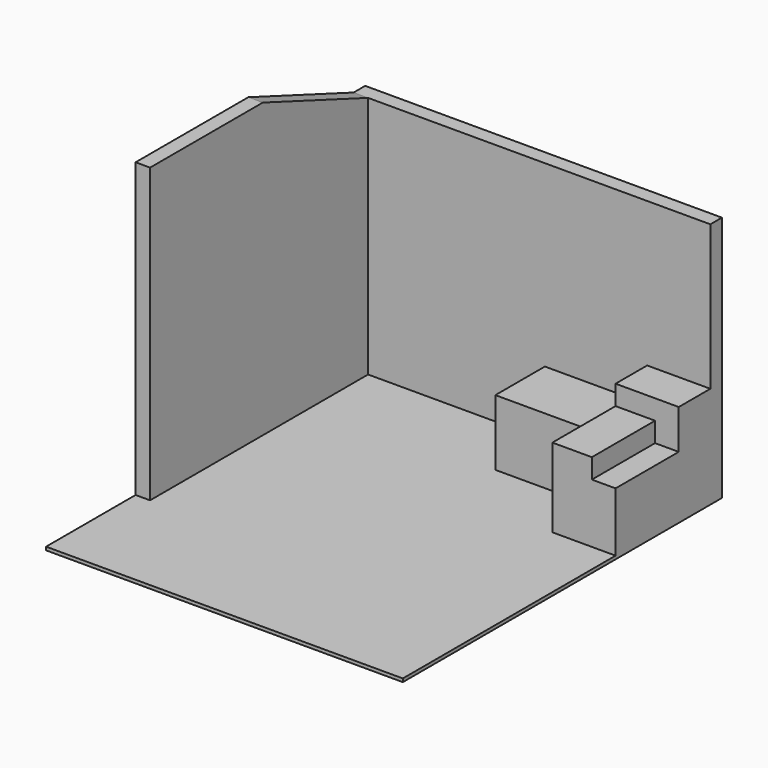
from build123d import *

# Parameters (mm, degrees)
F0_W      = 110
F0_H      = 2070
F1_DEPTH  = 2225
F2_W      = 1780
F2_H      = 110
F3_DEPTH  = 1850
F5_DEPTH  = 110
F6_W      = 1780
F6_H      = 2180
F7_DEPTH  = 25
F8_DEPTH  = 930
F9_W      = 480
F9_H      = 900
F10_DEPTH = 450
F11_W     = 480
F11_H     = 300
F12_DEPTH = 300
F13_W     = 300
F13_H     = 600
F14_DEPTH = 150
F15_W     = 750
F15_H     = 470
F16_DEPTH = 500
F17_W     = 2710
F17_H     = 25
F18_DEPTH = 850


with BuildPart() as f1:
    # F0 (on Top) → F1 (new body)
    with BuildSketch(Plane.XY):
        with Locations((55, -1035)):
            Rectangle(F0_W, F0_H)
    extrude(amount=F1_DEPTH)

    # F2 (on Top) → F3 (join)
    with BuildSketch(Plane.XY):
        with Locations((890, 55)):
            Rectangle(F2_W, F2_H)
    extrude(amount=F3_DEPTH)

    # F4 (on face) → F5 (cut)
    with BuildSketch(Plane.YZ.offset(110)):
        Polygon((-1000, 2225), (0, 1850), (0, 2225), align=None)
    extrude(amount=-F5_DEPTH, mode=Mode.SUBTRACT)

    # F6 (on face) → F7 (join)
    with BuildSketch(Plane(origin=(0, 0, 0), x_dir=(1, 0, 0), z_dir=(0, 0, -1))):
        with Locations((890, 980)):
            Rectangle(F6_W, F6_H)
    extrude(amount=F7_DEPTH)

    # F8 (add): a face of the model
    f8_faces = [f1.faces().sort_by_distance(p)[0] for p in [
        (1780, 28.7541736101, 925),
    ]]
    extrude(f8_faces, amount=F8_DEPTH)

    # F9 (on face) → F10 (join)
    with BuildSketch(Plane.XY):
        with Locations((2470, -450)):
            Rectangle(F9_W, F9_H)
    extrude(amount=F10_DEPTH)

    # F11 (on face) → F12 (join)
    with BuildSketch(Plane.XY.offset(450)):
        with Locations((2470, -150)):
            Rectangle(F11_W, F11_H)
    extrude(amount=F12_DEPTH)

    # F13 (on face) → F14 (join)
    with BuildSketch(Plane.XY.offset(450)):
        with Locations((2380, -600)):
            Rectangle(F13_W, F13_H)
    extrude(amount=F14_DEPTH)

    # F15 (on face) → F16 (join)
    with BuildSketch(Plane.XY):
        with Locations((1840, -250)):
            Rectangle(F15_W, F15_H)
    extrude(amount=F16_DEPTH)

    # F17 (on face) → F18 (join)
    with BuildSketch(Plane.XZ.offset(2070)):
        with Locations((1355, -12.5)):
            Rectangle(F17_W, F17_H)
    extrude(amount=F18_DEPTH)


solid = f1.part
